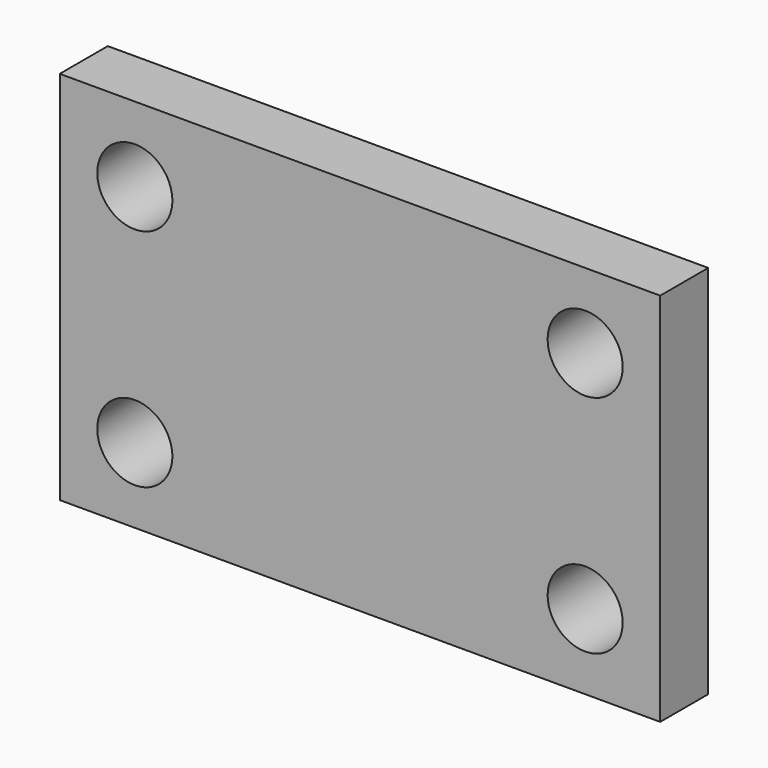
from build123d import *

# Parameters (mm, degrees)
F0_W     = 101.6
F0_H     = 63.5
F1_DEPTH = 12.7
F2_R     = 6.35
F3_DEPTH = 12.701
F4_W     = 12.7
F4_H     = 25.4
F6_W     = 9.067975
F6_H     = 5.08
F8_R     = 2.54
F9_SIZE  = 2.54


with BuildPart() as f1:
    # F0 (on Front) → F1 (new body)
    with BuildSketch(Plane.XZ):
        Rectangle(F0_W, F0_H)
    extrude(amount=-F1_DEPTH)

    # F2 (on face) → F3 (cut, through all)
    with BuildSketch(Plane(origin=(0, 12.7, 0), x_dir=(-1, 0, 0), z_dir=(0, 1, 0))):
        with Locations((38.1, -19.05)):
            Circle(F2_R)
        with Locations((-38.1, -19.05)):
            Circle(F2_R)
        with Locations((38.1, 19.05)):
            Circle(F2_R)
        with Locations((-38.1, 19.05)):
            Circle(F2_R)
    extrude(amount=-F3_DEPTH, mode=Mode.SUBTRACT)

    # F4 (on Top) → F5 (revolve)
    with BuildSketch(Plane.XY):
        with Locations((6.35, 25.4)):
            Rectangle(F4_W, F4_H)
    revolve(axis=Axis((0, 25.4, 0), (0, 1, 0)))

    # F6 (on Top) → F7 (revolve, cut)
    with BuildSketch(Plane.XY):
        with Locations((-14.693988, 25.4)):
            Rectangle(F6_W, F6_H)
    revolve(axis=Axis((0, 12.7, 0), (0, 1, 0)), mode=Mode.SUBTRACT)

    # F8
    f8_edges = [f1.edges().sort_by_distance(p)[0] for p in [
        (-12.7, 12.7, 0),
        (-12.7, 38.1, 0),
    ]]
    fillet(f8_edges, radius=F8_R)

    # F9
    f9_edges = [f1.edges().sort_by_distance(p)[0] for p in [
        (0, 12.7, -31.75),
        (50.8, 12.7, 0),
        (0, 12.7, 31.75),
        (-50.8, 12.7, 0),
    ]]
    chamfer(f9_edges, length=F9_SIZE)


solid = f1.part
